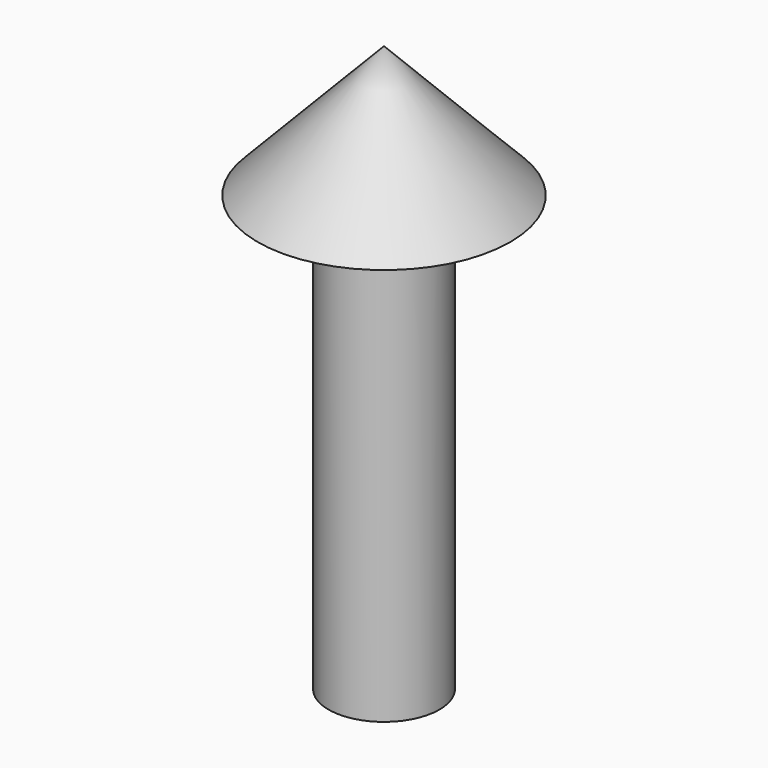
from build123d import *

# Parameters (mm, degrees)
F0_R     = 250
F1_DEPTH = 1960


with BuildPart() as f1:
    # F0 (on Top) → F1 (new body)
    with BuildSketch(Plane.XY):
        Circle(F0_R)
    extrude(amount=F1_DEPTH)

    # F2 (on Front) → F3 (revolve)
    with BuildSketch(Plane.XZ):
        Polygon((-569.699104, 1960), (0, 1960), (0, 2552.619219), align=None)
    revolve(axis=Axis((0, 0, 2256.309609), (0, 0, 1)))


solid = f1.part
